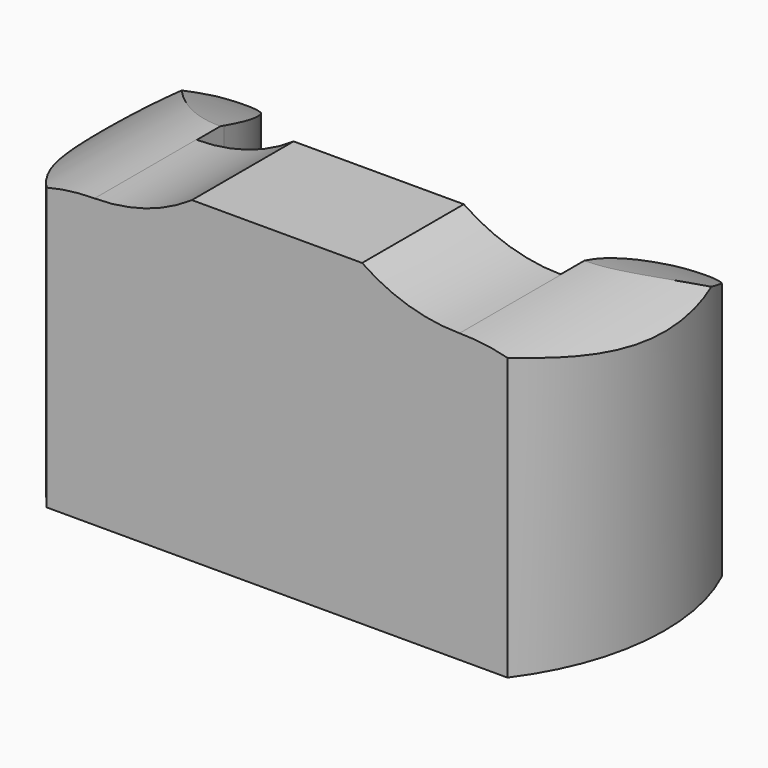
from build123d import *

# Parameters (mm, degrees)
F1_DEPTH      = 100
F3_DEPTH      = 98.6
F5_DEPTH      = 90.4
F5_DEPTH_BACK = 126
F7_R          = 1.588882932
F8_DEPTH      = 43
F9_R          = 23
F10_DEPTH     = 1
F10_FACE_R    = 23
F6_R          = 35.9732862146


with BuildPart() as f1:
    # F0 (on Top) → F1 (new body)
    with BuildSketch(Plane.XY):
        with BuildLine():
            Line((-72.5, -20), (72.5, -20))
            ThreePointArc((72.5, -20), (86.678490298, 16.4571509702), (80, 55))
            ThreePointArc((80, 55), (72.5, 58.3856217223), (65, 55))
            ThreePointArc((65, 55), (59.6251005185, 44.7536715994), (57.25, 33.4295518696))
            Line((57.25, 33.4295518696), (57.25, 20))
            Line((57.25, 20), (52.2593490829, 20))
            Line((52.2593490829, 20), (-57.25, 20))
            Line((-57.25, 20), (-57.25, 30.6907939249))
            ThreePointArc((-57.25, 30.6907939249), (-59.2343780506, 43.4481447471), (-65, 55))
            ThreePointArc((-65, 55), (-72.5, 58.3856217223), (-80, 55))
            ThreePointArc((-80, 55), (-88.7033607571, 16.2546639243), (-72.5, -20))
        make_face()
    extrude(amount=F1_DEPTH)

    # F2 (on face) → F3 (cut)
    with BuildSketch(Plane.XZ.offset(20)):
        with BuildLine():
            ThreePointArc((-57.4272125959, 90.5), (-41.3839754635, 92.9294628197), (-26.7793443054, 100))
            Line((-26.7793443054, 100), (-94.0743684769, 100))
            Line((-94.0743684769, 100), (-90.0195017457, 81))
            ThreePointArc((-90.0195017457, 81), (-74.4015116391, 88.0765901597), (-57.4272125959, 90.5))
        make_face()
        with BuildLine():
            Line((90.444765985, 100), (26.7793443054, 100))
            ThreePointArc((26.7793443054, 100), (41.3839754635, 92.9294628197), (57.4272125959, 90.5))
            ThreePointArc((57.4272125959, 90.5), (74.4015116391, 88.0765901597), (90.0195017457, 81))
            Line((90.0195017457, 81), (90.444765985, 100))
        make_face()
    extrude(amount=-F3_DEPTH, mode=Mode.SUBTRACT)

    # F4 (on Right) → F5 (cut, two sides)
    with BuildSketch(Plane.YZ) as f5_sk:
        with BuildLine():
            ThreePointArc((24.7983019799, 91.6626080871), (46.3463766624, 84.825875611), (66.7543932796, 75.1009956002))
            Line((66.7543932796, 75.1009956002), (66.7543932796, 98.7012907863))
            Line((66.7543932796, 98.7012907863), (24.7983019799, 98.7012907863))
            Line((24.7983019799, 98.7012907863), (24.7983019799, 91.6626080871))
        make_face()
    extrude(amount=-F5_DEPTH, mode=Mode.SUBTRACT)
    extrude(f5_sk.sketch, amount=F5_DEPTH_BACK, mode=Mode.SUBTRACT)

    # F7 (on face) → F8 (join)
    with BuildSketch(Plane(origin=(0, 20, 0), x_dir=(-1, 0, 0), z_dir=(0, 1, 0))):
        with Locations((0, 40.5010841787)):
            Circle(F7_R)
    extrude(amount=F8_DEPTH)

    # F9 (on face) → F10 (join)
    with BuildSketch(Plane(origin=(0, 63, 0), x_dir=(-1, 0, 0), z_dir=(0, 1, 0))):
        with Locations((0, 40.5010841787)):
            Circle(F9_R)
    extrude(amount=F10_DEPTH)

    # F10_face (on face) → F11 section 0
    with BuildSketch(Plane(origin=(0, 64, 40.5010841787), x_dir=(-1, 0, 0), z_dir=(0, 1, 0))):
        Circle(F10_FACE_R)
    # F6 (on face) → F11 section 1
    with BuildSketch(Plane(origin=(0, 20, 0), x_dir=(-1, 0, 0), z_dir=(0, 1, 0))):
        with Locations((0, 40.5)):
            Circle(F6_R)
    loft()


solid = f1.part
